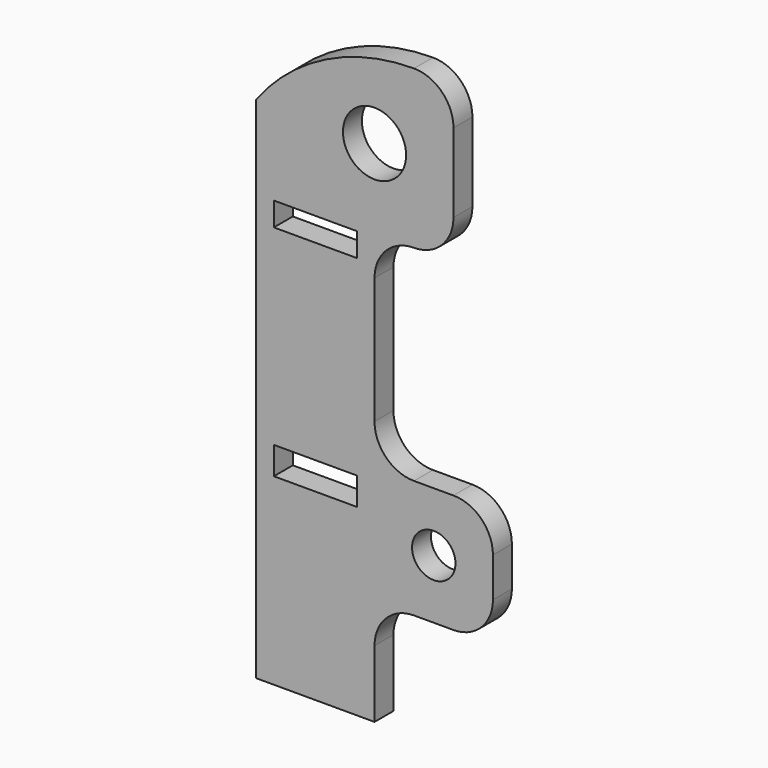
from build123d import *

# Parameters (mm, degrees)
F0_R     = 5.5
F0_R_2   = 8
F1_DEPTH = 6
F3_DEPTH = 25
F4_W     = 30
F4_H     = 6
F5_DEPTH = 25
F6_W     = 21
F6_H     = 7
F6_H_2   = 6
F7_DEPTH = 25


with BuildPart() as f1:
    # F0 (on Front) → F1 (new body)
    with BuildSketch(Plane.XZ):
        with BuildLine():
            Line((-59.436191, 0), (-59.436191, -101.490244))
            Line((-59.436191, -101.490244), (-19.436191, -101.490244))
            Line((-19.436191, -101.490244), (-19.436191, -78.490244))
            ThreePointArc((-19.436191, -78.490244), (-16.507259, -71.419176), (-9.436191, -68.490244))
            Line((-9.436191, -68.490244), (0.563809, -68.490244))
            ThreePointArc((0.563809, -68.490244), (7.634877, -65.561312), (10.563809, -58.490244))
            Line((10.563809, -58.490244), (10.563809, -53.490244))
            Line((10.563809, -53.490244), (10.563809, -48.490244))
            ThreePointArc((10.563809, -48.490244), (7.634877, -41.419176), (0.563809, -38.490244))
            Line((0.563809, -38.490244), (-4.436191, -38.490244))
            Line((-4.436191, -38.490244), (-9.436191, -38.490244))
            ThreePointArc((-9.436191, -38.490244), (-16.507259, -35.561312), (-19.436191, -28.490244))
            Line((-19.436191, -28.490244), (-19.436191, 3.509756))
            ThreePointArc((-19.436191, 3.509756), (-16.507259, 10.580824), (-9.436191, 13.509756))
            ThreePointArc((-9.436191, 13.509756), (-2.365123, 16.438688), (0.563809, 23.509756))
            Line((0.563809, 23.509756), (0.563809, 33.509756))
            Line((0.563809, 33.509756), (0.563809, 43.509756))
            ThreePointArc((0.563809, 43.509756), (-2.365123, 50.580824), (-9.436191, 53.509756))
            ThreePointArc((-9.436191, 53.509756), (-43.651687, 40.011908), (-59.436191, 6.789303))
            Line((-59.436191, 6.789303), (-59.436191, 0))
        make_face()
        with Locations((-4.436191, -53.490244)):
            Circle(F0_R, mode=Mode.SUBTRACT)
        with Locations((-19.436191, 33.509756)):
            Circle(F0_R_2, mode=Mode.SUBTRACT)
    extrude(amount=F1_DEPTH)

    # F2 (on face) → F3 (cut)
    with BuildSketch(Plane.XZ.offset(6)):
        with BuildLine():
            Line((-59.436191, 6.789303), (-59.436191, -101.490244))
            Line((-59.436191, -101.490244), (-49.436191, -101.490244))
            Line((-49.436191, -101.490244), (-49.436191, 33.586102))
            ThreePointArc((-49.436191, 33.586102), (-56.388476, 20.916254), (-59.436191, 6.789303))
        make_face()
    extrude(amount=-F3_DEPTH, mode=Mode.SUBTRACT)

    # F4 (on face) → F5 (cut)
    with BuildSketch(Plane.XZ.offset(6)):
        with Locations((-34.436191, -98.490244)):
            Rectangle(F4_W, F4_H)
    extrude(amount=-F5_DEPTH, mode=Mode.SUBTRACT)

    # F6 (on face) → F7 (cut)
    with BuildSketch(Plane.XZ.offset(6)):
        with Locations((-34.436191, -45.490244)):
            Rectangle(F6_W, F6_H)
        with Locations((-34.436191, 9.509756)):
            Rectangle(F6_W, F6_H_2)
    extrude(amount=-F7_DEPTH, mode=Mode.SUBTRACT)


solid = f1.part
